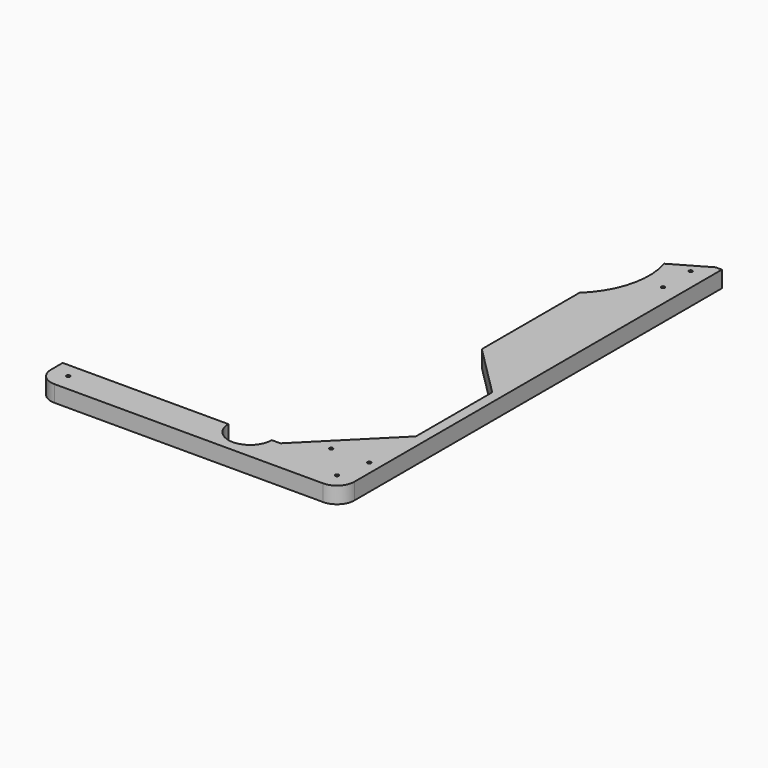
from build123d import *

# Parameters (mm, degrees)
PAD013_DEPTH          = 19
FILLET001_R           = 20
SKETCH022_R           = 2
POCKET013_DEPTH       = 19.001
SKETCH027_R           = 2
POCKET017_DEPTH       = 19.001
SKETCH069_R           = 2
POCKET044_DEPTH       = 19.001
CLONE_PLACEMENT_ANGLE = 90


with BuildPart() as part:
    # Sketch015 → Pad013 (new body)
    with BuildSketch(Plane.XY):
        with BuildLine():
            Line((-275, 216.2), (-238, 216.2))
            Line((-238, 216.2), (-238, 25))
            ThreePointArc((-238, 25), (-263, 0), (-238, -25))
            Line((-238, -25), (-238, -35))
            Line((-238, -35), (-151.2, -121.8))
            Line((-151.2, -121.8), (-41.2, -121.8))
            Line((-41.2, -121.8), (18.8, -61.8))
            Line((159.572483, -61.8), (18.8, -61.8))
            ThreePointArc((159.572483, -61.8), (202.10651, -87.039578), (251.554314, -85.993421))
            Line((251.554314, -85.993421), (275, -126.60254))
            Line((275, -126.60254), (275, -133.8))
            Line((275, -133.8), (-275, -133.8))
            Line((-275, -133.8), (-275, 216.2))
        make_face()
    extrude(amount=PAD013_DEPTH)

    # Fillet001
    fillet001_edges = [part.edges().sort_by_distance(p)[0] for p in [
        (-275, 216.2, 9.5),
        (-275, -133.8, 9.5),
    ]]
    fillet(fillet001_edges, radius=FILLET001_R)

    # Sketch022 (on Face5 of Fillet001) → Pocket013 (cut, through all)
    with BuildSketch(Plane.XY.offset(19)):
        with Locations((-255, 196.2)):
            Circle(SKETCH022_R)
        with Locations((-255, -113.8)):
            Circle(SKETCH022_R)
        with Locations((215, -113.8)):
            Circle(SKETCH022_R)
    extrude(amount=-POCKET013_DEPTH, mode=Mode.SUBTRACT)

    # Sketch027 (on Face5 of Pocket013) → Pocket017 (cut, through all)
    with BuildSketch(Plane.XY.offset(19)):
        with Locations((255, -113.8)):
            Circle(SKETCH027_R)
    extrude(amount=-POCKET017_DEPTH, mode=Mode.SUBTRACT)

    # Sketch069 (on Face5 of Pocket017) → Pocket044 (cut, through all)
    with BuildSketch(Plane.XY.offset(19)):
        with Locations((-217.5, -77)):
            Circle(SKETCH069_R)
        with Locations((-217.5, -121)):
            Circle(SKETCH069_R)
    extrude(amount=-POCKET044_DEPTH, mode=Mode.SUBTRACT)


with BuildPart() as part_1:
    # Body009 placement: moved
    add(part.part.moved(Location((0, 0, -9))))


with BuildPart() as part_2:
    # Clone placement: moved
    add(part_1.part.moved(Location((216.2, 275, -10))).rotate(Axis((216.2, 275, -10), (0, 0, 1)), CLONE_PLACEMENT_ANGLE))


solid = part_2.part
